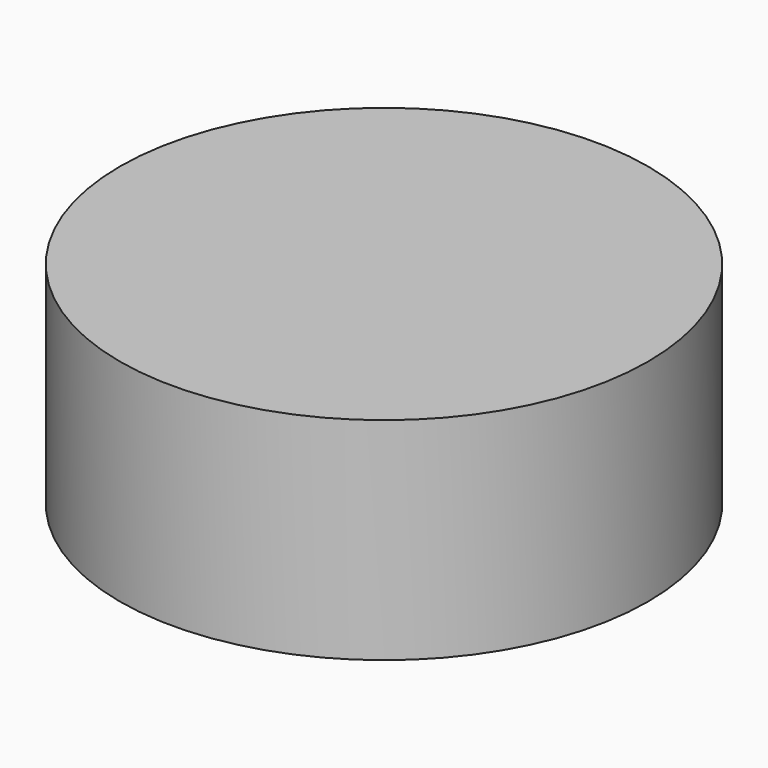
from build123d import *

# Parameters (mm, degrees)
SKETCH_R  = 2.5
PAD_DEPTH = 2


with BuildPart() as part:
    # Sketch → Pad (new body)
    with BuildSketch(Plane.XY):
        Circle(SKETCH_R)
    extrude(amount=PAD_DEPTH)


solid = part.part
